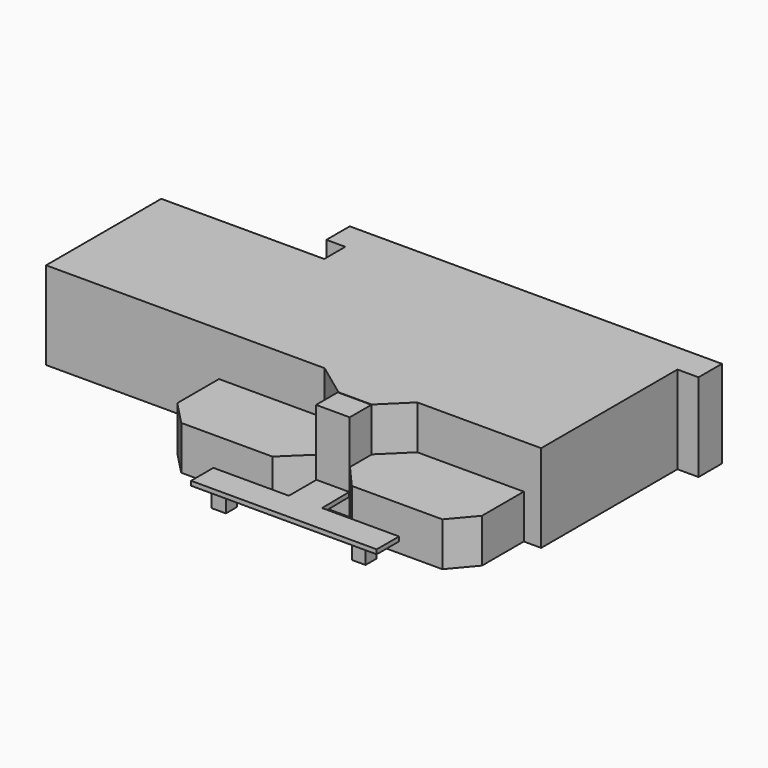
from build123d import *

# Parameters (mm, degrees)
F1_DEPTH = 12.7
F3_DEPTH = 12.7
F4_W     = 4.114597
F4_H     = 3.929552
F4_W_2   = 3.929552
F5_DEPTH = 5.08
F7_DEPTH = 1.27
F8_W     = 9.736664
F8_H     = 7.831667
F9_DEPTH = 25.4


with BuildPart() as f1:
    # F0 (on Top) → F1 (new body)
    with BuildSketch(Plane.XY):
        Polygon((-25.817534, 27.766027), (-72.938435, 27.766027), (-72.938435, -13.883014), (-22.924972, -13.883014), (10.443441, -13.883014), (33.140998, -13.883014), (65.230117, -13.883014), (70.253134, -13.883014), (70.253134, 27.766027), align=None)
        Polygon((-25.817534, 35.386027), (-25.817534, 27.766027), (70.253134, 27.766027), (70.253134, 35.386027), (76.351784, 35.386027), (76.351784, 43.841098), (-31.286752, 43.841098), (-31.286752, 35.386027), align=None)
        Polygon((10.443441, -13.883014), (-22.924972, -13.883014), (-22.924972, -28.973805), (-16.182542, -35.957668), (10.193365, -35.957668), (17.427307, -28.973805), (17.427307, -21.116959), align=None)
        Polygon((33.140998, -13.883014), (10.443441, -13.883014), (17.427307, -21.116959), (27.030118, -21.116959), align=None)
        Polygon((65.230117, -28.973805), (65.230117, -13.883014), (33.140998, -13.883014), (27.030118, -21.116959), (27.030118, -28.973805), (33.140998, -35.957668), (59.330493, -35.957668), align=None)
    extrude(amount=F1_DEPTH)

    # F2 (on face) → F3 (join)
    with BuildSketch(Plane.XY.offset(12.7)):
        Polygon((-72.938435, -13.883014), (-22.924972, -13.883014), (7.626304, -13.883014), (17.427307, -21.116959), (27.030118, -21.116959), (34.418084, -13.883014), (65.230117, -13.883014), (70.253134, -13.883014), (70.253134, 35.386027), (76.351784, 35.386027), (76.351784, 43.841098), (-31.286752, 43.841098), (-31.286752, 35.386027), (-25.817534, 35.386027), (-25.817534, 27.766027), (-72.938435, 27.766027), align=None)
    extrude(amount=F3_DEPTH)


with BuildPart() as f5:
    # F4 (on Top) → F5 (new body)
    with BuildSketch(Plane.XY):
        with Locations((2.057298, -43.225048)):
            Rectangle(F4_W, F4_H)
        with Locations((42.53686, -43.225048)):
            Rectangle(F4_W_2, F4_H)
    extrude(amount=F5_DEPTH)


with BuildPart() as f7:
    # F6 (on face) → F7 (new body)
    with BuildSketch(Plane.XY.offset(5.08)):
        Polygon((26.818659, -21.394216), (17.431403, -20.957598), (17.431403, -37.330724), (17.431403, -39.077189), (-4.39943, -39.077189), (-4.39943, -47.154598), (49.304418, -47.154598), (49.304418, -39.077189), (27.03697, -39.077189), align=None)
    extrude(amount=F7_DEPTH)


with BuildPart() as f9:
    # F8 (on Top) → F9 (new body)
    with BuildSketch(Plane.XY):
        with Locations((22.195058, -25.188334)):
            Rectangle(F8_W, F8_H)
    extrude(amount=F9_DEPTH)


solid = Compound([f1.part, f5.part, f7.part, f9.part])
